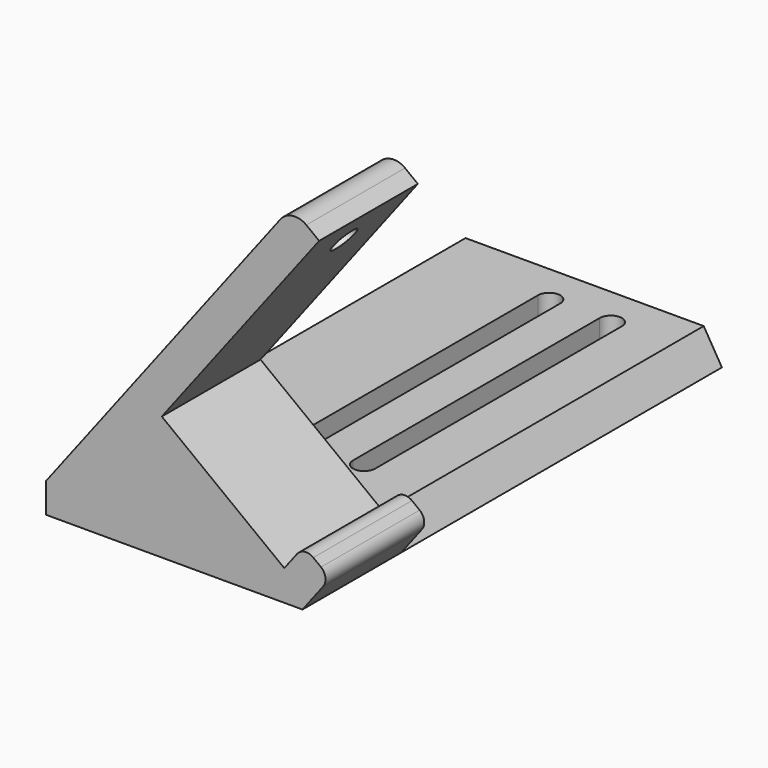
from build123d import *

# Parameters (mm, degrees)
CYLINDER004_R               = 1.8
CYLINDER004_DEPTH           = 10
BOX003_W                    = 3.6
BOX003_H                    = 50
BOX003_DEPTH                = 10
CYLINDER003_R               = 1.8
CYLINDER003_DEPTH           = 10
ARRAY001_X_COUNT            = 2
ARRAY001_X_PITCH            = 10
EXTRUDE005_DEPTH            = 65
CYLINDER002_R               = 2.2
CYLINDER002_DEPTH           = 20
CYLINDER002_PLACEMENT_ANGLE = 127.63
PAD_DEPTH                   = 20


with BuildPart() as cylinder004:
    # Cylinder004 → Cylinder004 (new body)
    with BuildSketch(Plane(origin=(0, 50, 0), x_dir=(1, 0, 0), z_dir=(0, 0, 1))):
        Circle(CYLINDER004_R)
    extrude(amount=CYLINDER004_DEPTH)


with BuildPart() as cube:
    # Box003 → Box003 (new body)
    with BuildSketch(Plane(origin=(-1.8, 0, 0), x_dir=(1, 0, 0), z_dir=(0, 0, 1))):
        with Locations((1.8, 25)):
            Rectangle(BOX003_W, BOX003_H)
    extrude(amount=BOX003_DEPTH)


with BuildPart() as array001:
    # Cylinder003 → Cylinder003 (new body)
    with BuildSketch(Plane.XY):
        Circle(CYLINDER003_R)
    extrude(amount=CYLINDER003_DEPTH)

    # Fusion004: union Cylinder004, Cube
    add(cylinder004.part)
    add(cube.part)

    # Array001 X: Array001 ×2


with BuildPart() as array001_1:
    add(array001.part)
    with Locations(*[(i * ARRAY001_X_PITCH, 0, 0) for i in range(1, ARRAY001_X_COUNT)]):
        add(array001.part)


with BuildPart() as array001_2:
    # Array001 placement: moved
    add(array001_1.part.moved(Location((0, 8.5, 0))))


with BuildPart() as cut002:
    # Sketch006 → Extrude005 (new body)
    with BuildSketch(Plane.XZ):
        Polygon((-18.759547, 0), (22.810035, 0), (19.860366, 4.945604), (-18.759547, 4.945604), align=None)
    extrude(amount=-EXTRUDE005_DEPTH)

    # Cut002: cut Array001
    add(array001_2.part, mode=Mode.SUBTRACT)


with BuildPart() as insert_hole:
    # Cylinder002 → Cylinder002 (new body)
    with BuildSketch(Plane.XY):
        Circle(CYLINDER002_R)
    extrude(amount=CYLINDER002_DEPTH)


with BuildPart() as insert_hole_1:
    # Cylinder002 placement: moved
    add(insert_hole.part.moved(Location((10.5, -10, 56.79))).rotate(Axis((10.5, -10, 56.79), (0, 1, 0)), CYLINDER002_PLACEMENT_ANGLE))


with BuildPart() as fusion003:
    # Sketch005 → Pad (new body)
    with BuildSketch(Plane.XZ):
        with BuildLine():
            Line((-18.759547, 0), (22.810035, 0))
            Line((22.810035, 0), (26.15983, 4.38135))
            ThreePointArc((26.15983, 4.38135), (26.531558, 5.778404), (25.806542, 7.029122))
            Line((25.806542, 7.029122), (24.559787, 7.982338))
            ThreePointArc((24.559787, 7.982338), (23.162733, 8.354066), (21.912015, 7.62905))
            Line((19.860366, 4.945604), (21.912015, 7.62905))
            Line((19.860366, 4.945604), (0, 20.13))
            Line((0, 20.13), (25.509785, 53.495414))
            Line((25.509785, 53.495414), (23.431531, 55.084359))
            ThreePointArc((23.431531, 55.084359), (21.212635, 55.674762), (19.22616, 54.523243))
            Line((-18.759547, 4.84), (19.22616, 54.523243))
            Line((-18.759547, 0), (-18.759547, 4.84))
        make_face()
    extrude(amount=PAD_DEPTH)

    # Cut: cut insert hole
    add(insert_hole_1.part, mode=Mode.SUBTRACT)

    # Fusion003: union Cut002
    add(cut002.part)


solid = fusion003.part
